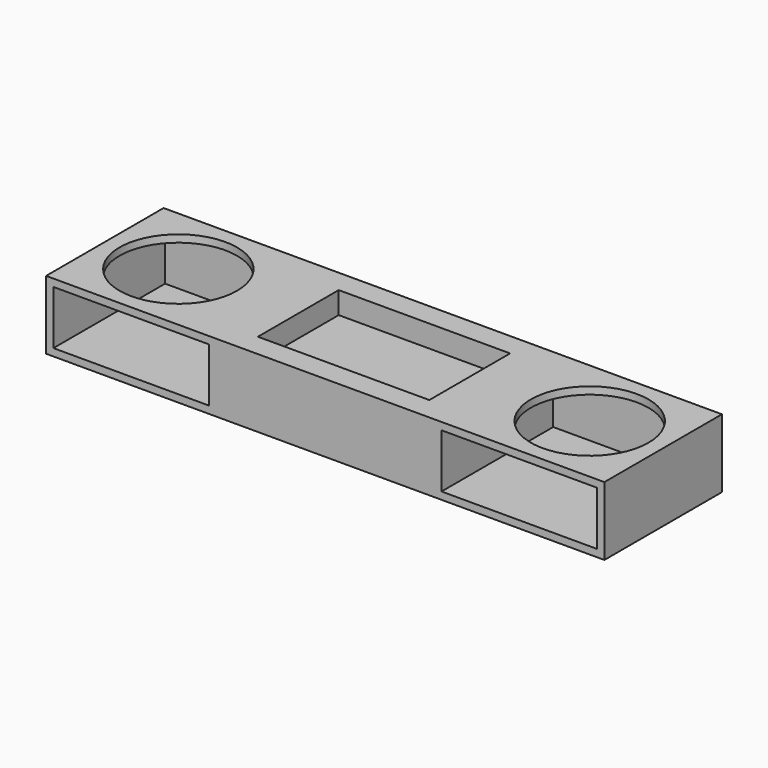
from build123d import *

# Parameters (mm, degrees)
F0_W     = 1447.8
F0_H     = 381
F1_DEPTH = 177.8
F4_T     = -19.05
F2_R     = 152.4
F5_DEPTH = 25.4
F3_W     = 603.25
F3_H     = 177.8
F6_DEPTH = 381
F2_W     = 444.5
F2_H     = 261.9375
F7_DEPTH = 57.15


with BuildPart() as f1:
    # F0 (on Top) → F1 (new body)
    with BuildSketch(Plane.XY):
        Rectangle(F0_W, F0_H)
    extrude(amount=F1_DEPTH)

    # F4
    f4_openings = [f1.faces().sort_by_distance(p)[0] for p in [
        (0, -190.5, 88.9),
    ]]
    offset(amount=F4_T, openings=f4_openings)

    # F2 (on face) → F5 (cut)
    with BuildSketch(Plane.XY.offset(177.8)):
        with Locations((-533.4, 0)):
            Circle(F2_R)
        with Locations((533.4, 0)):
            Circle(F2_R)
    extrude(amount=-F5_DEPTH, mode=Mode.SUBTRACT)

    # F3 (on face) → F6 (join)
    with BuildSketch(Plane.XZ.offset(190.5)):
        with Locations((0, 88.9)):
            Rectangle(F3_W, F3_H)
    extrude(amount=-F6_DEPTH)

    # F2 (on face) → F7 (cut)
    with BuildSketch(Plane.XY.offset(177.8)):
        Rectangle(F2_W, F2_H)
    extrude(amount=-F7_DEPTH, mode=Mode.SUBTRACT)


solid = f1.part
